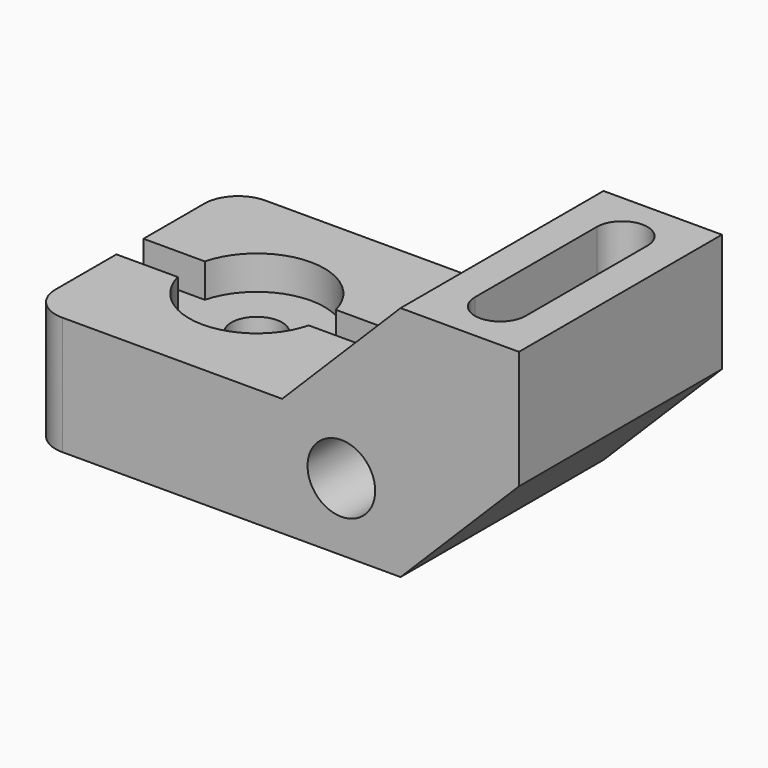
from build123d import *

# Parameters (mm, degrees)
F0_R     = 10.16
F1_DEPTH = 76.2
F3_DEPTH = 27.94
F4_R     = 7.62
F5_DEPTH = 10.16
F6_DEPTH = 35.561
F7_R     = 10.16


with BuildPart() as f1:
    # F0 (on Front) → F1 (new body)
    with BuildSketch(Plane.XZ):
        Polygon((0, 35.56), (0, 0), (111.76, 0), (147.32, 35.56), (147.32, 71.12), (111.76, 71.12), (76.2, 35.56), align=None)
        with Locations((93.98, 20.32)):
            Circle(F0_R, mode=Mode.SUBTRACT)
    extrude(amount=F1_DEPTH)

    # F2 (on face) → F3 (cut)
    with BuildSketch(Plane.XY.offset(71.12)):
        with BuildLine():
            ThreePointArc((137.16, -15.24), (129.54, -7.62), (121.92, -15.24))
            Line((121.92, -15.24), (121.92, -60.960002))
            ThreePointArc((121.92, -60.960002), (129.54, -68.58), (137.16, -60.960002))
            Line((137.16, -60.960002), (137.16, -15.24))
        make_face()
    extrude(amount=-F3_DEPTH, mode=Mode.SUBTRACT)

    # F4 (on face) → F5 (cut)
    with BuildSketch(Plane.XY.offset(35.56)):
        with BuildLine():
            Line((18.425245, -33.02), (0, -33.02))
            Line((0, -33.02), (0, -43.18))
            Line((0, -43.18), (18.425245, -43.18))
            ThreePointArc((18.425245, -43.18), (38.1, -58.42), (57.774755, -43.18))
            Line((57.774755, -43.18), (76.2, -43.18))
            Line((76.2, -43.18), (76.2, -33.02))
            Line((76.2, -33.02), (57.774755, -33.02))
            ThreePointArc((57.774755, -33.02), (38.1, -17.78), (18.425245, -33.02))
        make_face()
        with Locations((38.1, -38.1)):
            Circle(F4_R, mode=Mode.SUBTRACT)
    extrude(amount=-F5_DEPTH, mode=Mode.SUBTRACT)

    # F4 (on face) → F6 (cut, through all)
    with BuildSketch(Plane.XY.offset(35.56)):
        with Locations((38.1, -38.1)):
            Circle(F4_R)
    extrude(amount=-F6_DEPTH, mode=Mode.SUBTRACT)

    # F7
    f7_edges = [f1.edges().sort_by_distance(p)[0] for p in [
        (0, -76.2, 17.78),
        (0, 0, 17.78),
    ]]
    fillet(f7_edges, radius=F7_R)


solid = f1.part
